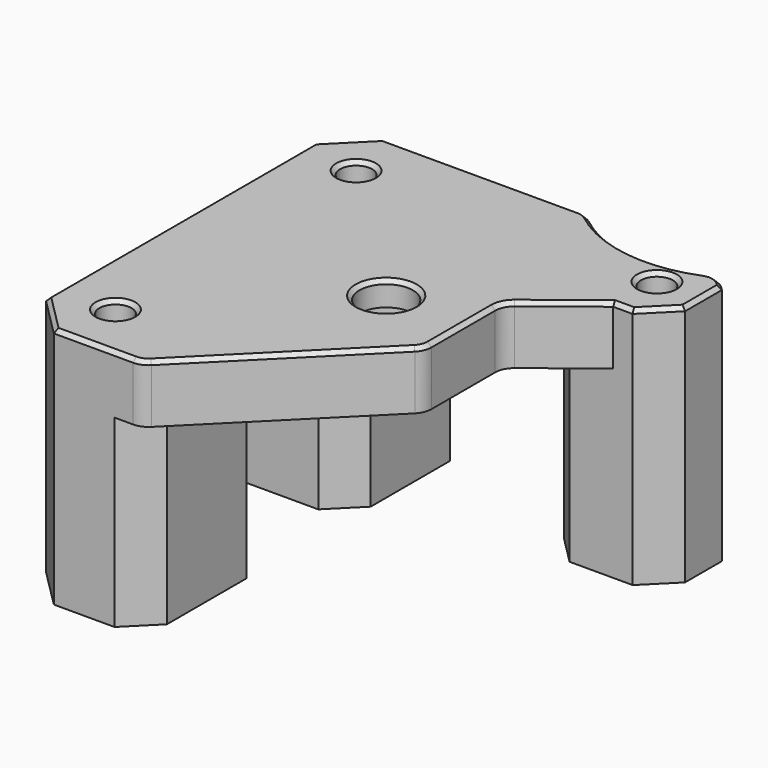
from build123d import *

# Parameters (mm, degrees)
SKETCH_W        = 41.25
SKETCH_H        = 42.5
SKETCH_R        = 1.65
SKETCH_R_2      = 2.75
PAD_DEPTH       = 25
POCKET_DEPTH    = 19
POCKET001_DEPTH = 19
POCKET002_DEPTH = 6.001
CHAMFER_SIZE    = 4
CHAMFER001_SIZE = 3
CHAMFER002_SIZE = 3
SKETCH003_R     = 5.55
POCKET003_DEPTH = 3.5
SKETCH004_R     = 1.55
POCKET004_DEPTH = 10
SKETCH005_R     = 1.9
POCKET005_DEPTH = 6
SKETCH006_R     = 13.5
POCKET006_DEPTH = 25.001
POCKET007_DEPTH = 25.001
FILLET_R        = 2
CHAMFER003_SIZE = 0.4


with BuildPart() as part:
    # Sketch → Pad (new body)
    with BuildSketch(Plane.XY):
        with Locations((-0.625, 0)):
            Rectangle(SKETCH_W, SKETCH_H)
        with Locations((-15.5, 15.5)):
            Circle(SKETCH_R, mode=Mode.SUBTRACT)
        with Locations((-15.5, -15.5)):
            Circle(SKETCH_R, mode=Mode.SUBTRACT)
        with Locations((15.5, -15.5)):
            Circle(SKETCH_R, mode=Mode.SUBTRACT)
        with Locations((15.5, 15.5)):
            Circle(SKETCH_R, mode=Mode.SUBTRACT)
        Circle(SKETCH_R_2, mode=Mode.SUBTRACT)
    extrude(amount=PAD_DEPTH)

    # Sketch001 (on Face10 of Pad) → Pocket (cut)
    with BuildSketch(Plane(origin=(0, 0, 0), x_dir=(1, 0, 0), z_dir=(0, 0, -1))):
        Polygon((-21.25, 5), (-21.25, -5), (-8, -5), (-8, -21.25), (7.5, -21.25), (7.5, -10.5), (20, -10.5), (20, 10.5), (7.5, 10.5), (7.5, 21.25), (-8, 21.25), (-8, 5), align=None)
    extrude(amount=-POCKET_DEPTH, mode=Mode.SUBTRACT)

    # Sketch001 (on Face10 of Pad) → Pocket001 (cut)
    with BuildSketch(Plane(origin=(0, 0, 0), x_dir=(1, 0, 0), z_dir=(0, 0, -1))):
        Polygon((-21.25, 5), (-21.25, -5), (-8, -5), (-8, -21.25), (7.5, -21.25), (7.5, -10.5), (20, -10.5), (20, 10.5), (7.5, 10.5), (7.5, 21.25), (-8, 21.25), (-8, 5), align=None)
    extrude(amount=-POCKET001_DEPTH, mode=Mode.SUBTRACT)

    # Sketch002 (on Face4 of Pocket001) → Pocket002 (cut, through all)
    with BuildSketch(Plane(origin=(0, 0, 19), x_dir=(1, 0, 0), z_dir=(0, 0, -1))):
        Polygon((20, 10.5), (20, -10.5), (15, -10.5), (8, -5), (8, 5), (15, 10.5), align=None)
    extrude(amount=-POCKET002_DEPTH, mode=Mode.SUBTRACT)

    # Chamfer
    chamfer_edges = [part.edges().sort_by_distance(p)[0] for p in [
        (-21.25, -21.25, 12.5),
        (-21.25, 21.25, 12.5),
    ]]
    chamfer(chamfer_edges, length=CHAMFER_SIZE)

    # Chamfer001
    chamfer001_edges = [part.edges().sort_by_distance(p)[0] for p in [
        (20, 21.25, 12.5),
        (20, 10.5, 22),
        (20, -10.5, 9.5),
        (20, -21.25, 12.5),
    ]]
    chamfer(chamfer001_edges, length=CHAMFER001_SIZE)

    # Chamfer002
    chamfer002_edges = [part.edges().sort_by_distance(p)[0] for p in [
        (-8, 5, 9.5),
        (-8, -5, 9.5),
        (7.5, -10.5, 9.5),
        (7.5, -21.25, 9.5),
        (7.5, 10.5, 9.5),
        (7.5, 21.25, 9.5),
        (-8, -21.25, 9.5),
        (-8, 21.25, 9.5),
    ]]
    chamfer(chamfer002_edges, length=CHAMFER002_SIZE)

    # Sketch003 (on Face5 of Chamfer002) → Pocket003 (cut)
    with BuildSketch(Plane(origin=(0, 0, 19), x_dir=(1, 0, 0), z_dir=(0, 0, -1))):
        Circle(SKETCH003_R)
    extrude(amount=-POCKET003_DEPTH, mode=Mode.SUBTRACT)

    # Sketch004 (on Face18 of Pocket003) → Pocket004 (cut)
    with BuildSketch(Plane(origin=(-21.25, 0, 0), x_dir=(0, -1, 0), z_dir=(-1, 0, 0))):
        with Locations((-10, 20)):
            Circle(SKETCH004_R)
        with Locations((10, 20)):
            Circle(SKETCH004_R)
        with Locations((-10, 5)):
            Circle(SKETCH004_R)
        with Locations((10, 5)):
            Circle(SKETCH004_R)
    extrude(amount=-POCKET004_DEPTH, mode=Mode.SUBTRACT)

    # Sketch005 (on Face18 of Pocket004) → Pocket005 (cut)
    with BuildSketch(Plane(origin=(-21.25, 0, 0), x_dir=(0, -1, 0), z_dir=(-1, 0, 0))):
        with Locations((-10, 20)):
            Circle(SKETCH005_R)
        with Locations((-10, 5)):
            Circle(SKETCH005_R)
        with Locations((10, 5)):
            Circle(SKETCH005_R)
        with Locations((10, 20)):
            Circle(SKETCH005_R)
    extrude(amount=-POCKET005_DEPTH, mode=Mode.SUBTRACT)

    # Sketch006 (on Face6 of Pocket005) → Pocket006 (cut, through all)
    with BuildSketch(Plane.XY.offset(25)):
        with Locations((12.5, 31.5)):
            Circle(SKETCH006_R)
        with Locations((12.5, -31.5)):
            Circle(SKETCH006_R)
    extrude(amount=-POCKET006_DEPTH, mode=Mode.SUBTRACT)

    # Sketch007 (on Face2 of Pocket006) → Pocket007 (cut, through all)
    with BuildSketch(Plane.XY.offset(25)):
        Polygon((8, -5), (-8.25, -21.25), (20, -21.25), (20, -5), align=None)
    extrude(amount=-POCKET007_DEPTH, mode=Mode.SUBTRACT)

    # Fillet
    fillet_edges = [part.edges().sort_by_distance(p)[0] for p in [
        (-8.25, -21.25, 22),
        (8, -5, 22),
        (8, 5, 22),
        (18.727713, 19.522287, 12.5),
        (3.714358, 21.25, 22),
    ]]
    fillet(fillet_edges, radius=FILLET_R)

    # Chamfer003
    chamfer003_edges = [part.edges().sort_by_distance(p)[0] for p in [
        (-0.125, -13.125, 25),
        (7.847759, -4.93694, 25),
        (-8.31306, -21.097759, 25),
        (8, -0.071822, 25),
        (-13.164214, -21.25, 25),
        (8.201211, 4.902205, 25),
        (-19.25, -19.25, 25),
        (11.882178, 8.050283, 25),
        (-21.25, 0, 25),
        (16, 10.5, 25),
        (-19.25, 19.25, 25),
        (18.5, 12, 25),
        (-7.123355, 21.25, 25),
        (20, 15.875, 25),
        (3.650866, 21.142259, 25),
        (19.855506, 18.394494, 25),
        (10.64186, 18.128489, 25),
        (18.696189, 19.08449, 25),
        (-17.15, -15.5, 25),
        (13.85, 15.5, 25),
        (-2.75, 0, 25),
        (-17.15, 15.5, 25),
        (-5.55, 0, 19),
        (-21.25, -8.1, 20),
        (-21.25, -8.1, 5),
        (-21.25, 11.9, 5),
        (-21.25, 11.9, 20),
    ]]
    chamfer(chamfer003_edges, length=CHAMFER003_SIZE)


solid = part.part
